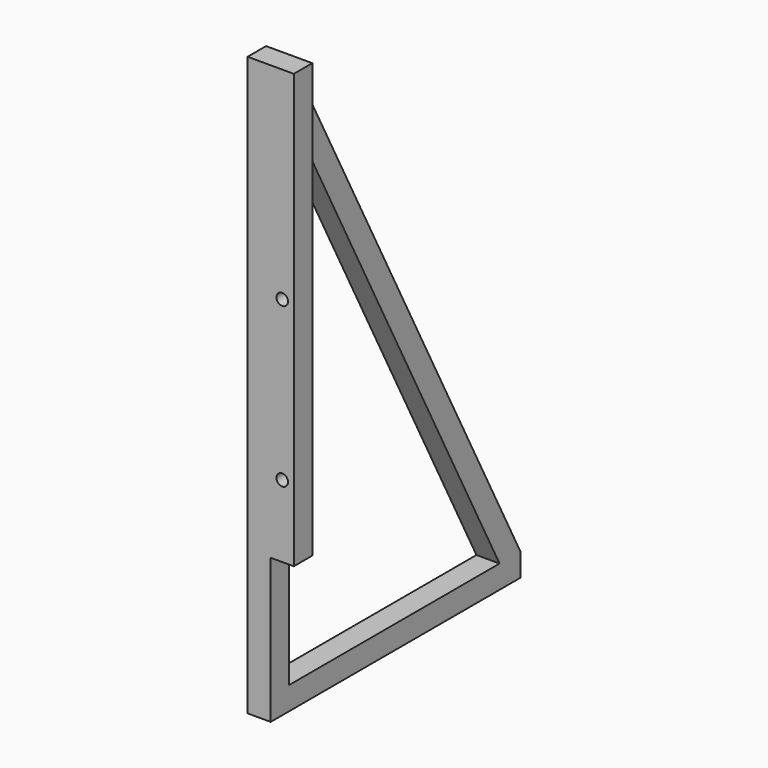
from build123d import *

# Parameters (mm, degrees)
PAD_DEPTH    = 16
SKETCH001_W  = 16
SKETCH001_H  = 300
PAD001_DEPTH = 32
SKETCH003_R  = 4
POCKET_DEPTH = 216.001


with BuildPart() as part:
    # Sketch → Pad (new body)
    with BuildSketch(Plane.YZ):
        Polygon((0, 0), (0, -100), (16, -100), (216, -100), (216, -84), (16, 300), (0, 300), align=None)
        Polygon((16, 265.363049), (197.959921, -84), (16, -84), align=None, mode=Mode.SUBTRACT)
    extrude(amount=PAD_DEPTH)

    # Sketch001 (on Face4 of Pad) → Pad001 (join)
    with BuildSketch(Plane(origin=(0, 0, 0), x_dir=(0, 1, 0), z_dir=(-1, 0, 0))):
        with Locations((8, -150)):
            Rectangle(SKETCH001_W, SKETCH001_H)
    extrude(amount=-PAD001_DEPTH)

    # Sketch003 (on Face10 of Pad001) → Pocket (cut, through all)
    with BuildSketch(Plane(origin=(0, 0, 0), x_dir=(0, 0, -1), z_dir=(0, -1, 0))):
        with Locations((-160, 24)):
            Circle(SKETCH003_R)
        with Locations((-50, 24)):
            Circle(SKETCH003_R)
    extrude(amount=-POCKET_DEPTH, mode=Mode.SUBTRACT)


solid = part.part
